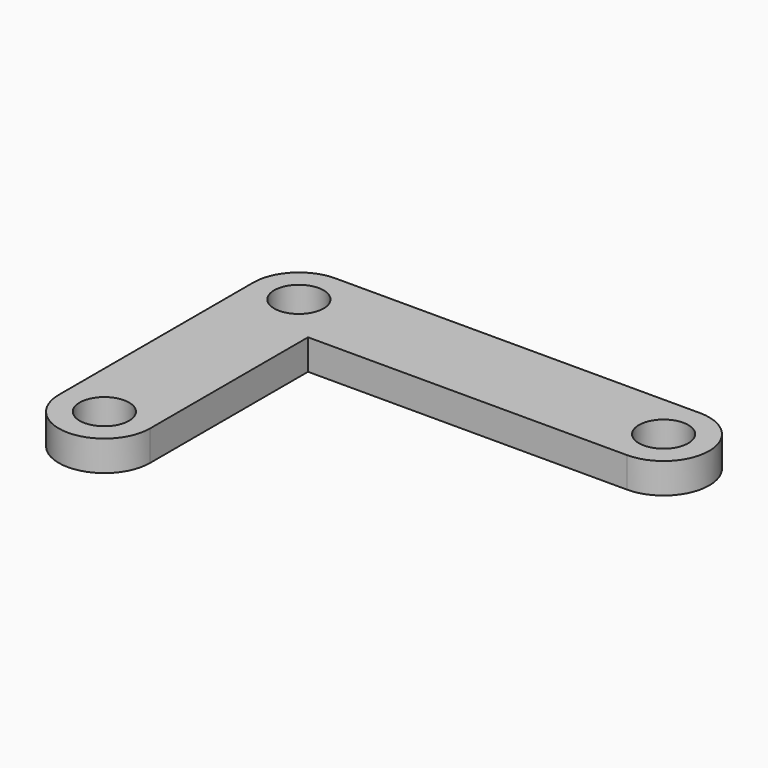
from build123d import *

# Parameters (mm, degrees)
F1_DEPTH = 3.175
F2_D     = 5.159375


with BuildPart() as f1:
    # F0 (on Top) → F1 (new body)
    with BuildSketch(Plane.XY):
        with BuildLine():
            Line((-4.7625, 0), (-4.7625, -25.4))
            ThreePointArc((-4.7625, -25.4), (0, -30.1625), (4.7625, -25.4))
            Line((4.7625, -25.4), (4.7625, -4.7625))
            Line((4.7625, -4.7625), (38.1, -4.7625))
            ThreePointArc((38.1, -4.7625), (42.8625, 0), (38.1, 4.7625))
            Line((38.1, 4.7625), (0, 4.7625))
            ThreePointArc((0, 4.7625), (-3.3675960454, 3.3675960454), (-4.7625, 0))
        make_face()
    extrude(amount=F1_DEPTH)

    # F2 (through all)
    with Locations(Plane(origin=(0, 0, 0), x_dir=(1, 0, 0), z_dir=(0, 0, -1))):
        with Locations((0, 25.4), (0, 0), (38.1, 0)):
            Hole(F2_D / 2)


solid = f1.part
